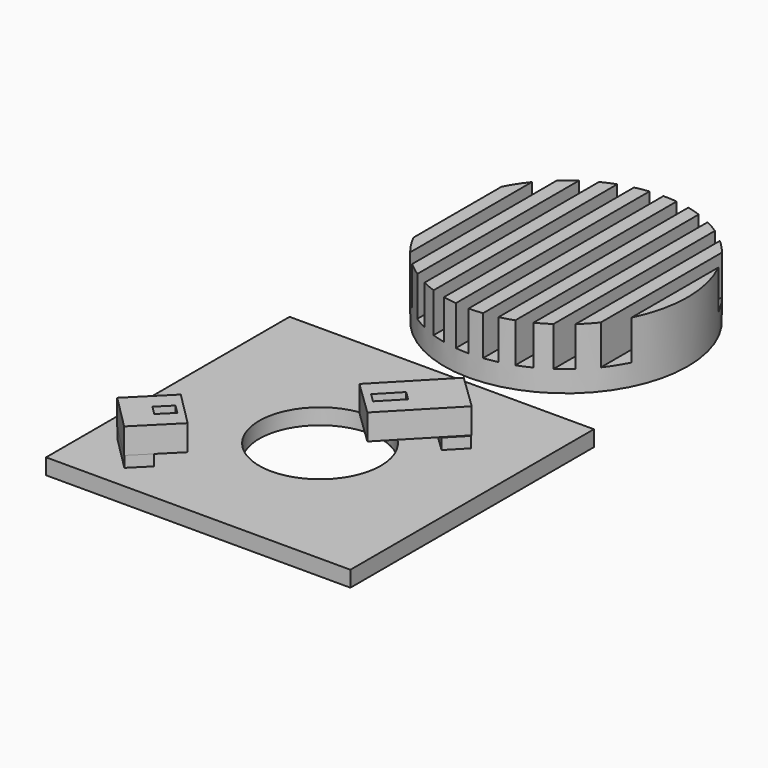
from build123d import *

# Parameters (mm, degrees)
SKETCH005_AS_DRAWN_W                      = 2.018315
SKETCH005_AS_DRAWN_H                      = 4.540272
EXTRUDE002_DEPTH                          = 4.5
EXTRUDE002_ONTO_SKETCH005_PLACEMENT_ANGLE = 136
BOX004_W                                  = 8
BOX004_H                                  = 13.5
BOX004_DEPTH                              = 4.2
BOX004_PLACEMENT_ANGLE                    = 136
BOX002_W                                  = 8
BOX002_H                                  = 3.8
BOX002_DEPTH                              = 1.8
BOX002_PLACEMENT_ANGLE                    = 136
SKETCH006_AS_DRAWN_W                      = 2.0548
SKETCH006_AS_DRAWN_H                      = 2.98173
EXTRUDE003_DEPTH                          = 4.5
EXTRUDE003_ONTO_SKETCH006_PLACEMENT_ANGLE = 135
BOX003_W                                  = 8
BOX003_H                                  = 8.2
BOX003_DEPTH                              = 4.2
BOX003_PLACEMENT_ANGLE                    = 135
BOX001_W                                  = 8
BOX001_H                                  = 3.8
BOX001_DEPTH                              = 1.8
BOX001_PLACEMENT_ANGLE                    = 135
CYLINDER_R                                = 10
CYLINDER_DEPTH                            = 2.6
BOX_W                                     = 50
BOX_H                                     = 50
BOX_DEPTH                                 = 2.6
SKETCH001_W                               = 2.23349
SKETCH001_H                               = 39.923653
SKETCH001_W_2                             = 2.233494
SKETCH001_H_2                             = 40.016715
SKETCH001_W_3                             = 2.204327
SKETCH001_H_3                             = 40.844541
SKETCH001_W_4                             = 2.233492
SKETCH001_H_4                             = 40.109777
SKETCH001_W_5                             = 2.233491
EXTRUDE_DEPTH                             = 6.5
CYLINDER001_R                             = 20
CYLINDER001_DEPTH                         = 10
CUT001_PLACEMENT_ANGLE                    = 180
SKETCH002_R                               = 3
SKETCH002_R_2                             = 2.35
EXTRUDE001_DEPTH                          = 3


with BuildPart() as extrude002:
    # Sketch005 as drawn → Extrude002 (new)
    with BuildSketch(Plane.XY):
        with Locations((3.98714, 10.110961)):
            Rectangle(SKETCH005_AS_DRAWN_W, SKETCH005_AS_DRAWN_H)
    extrude(amount=EXTRUDE002_DEPTH)


with BuildPart() as extrude002_1:
    # Extrude002 onto Sketch005 placement: moved
    add(extrude002.part.moved(Location((47.02, 42.01, 12.52))).rotate(Axis((47.02, 42.01, 12.52), (0, 0, 1)), EXTRUDE002_ONTO_SKETCH005_PLACEMENT_ANGLE))


with BuildPart() as extrude002_2:
    # Extrude002 placement: moved
    add(extrude002_1.part.moved(Location((0, 0, -4.5))))


with BuildPart() as cut003:
    # Box004 → Box004 (new body)
    with BuildSketch(Plane.XY):
        with Locations((4, 6.75)):
            Rectangle(BOX004_W, BOX004_H)
    extrude(amount=BOX004_DEPTH)


with BuildPart() as cut003_1:
    # Box004 placement: moved
    add(cut003.part.moved(Location((47.02, 42.01, 8.32))).rotate(Axis((47.02, 42.01, 8.32), (0, 0, 1)), BOX004_PLACEMENT_ANGLE))

    # Cut003: cut Extrude002
    add(extrude002_2.part, mode=Mode.SUBTRACT)


with BuildPart() as cut003_2:
    # Cut003 placement: moved
    add(cut003_1.part.moved(Location((-5.975619, -5.901068, -3.867182))))


with BuildPart() as fusion:
    # Box002 → Box002 (new body)
    with BuildSketch(Plane.XY):
        with Locations((4, 1.9)):
            Rectangle(BOX002_W, BOX002_H)
    extrude(amount=BOX002_DEPTH)


with BuildPart() as fusion_1:
    # Box002 placement: moved
    add(fusion.part.moved(Location((41, 36, 2.6))).rotate(Axis((41, 36, 2.6), (0, 0, 1)), BOX002_PLACEMENT_ANGLE))

    # Fusion: union Cut003
    add(cut003_2.part)


with BuildPart() as extrude003:
    # Sketch006 as drawn → Extrude003 (new)
    with BuildSketch(Plane.XY):
        with Locations((4.015499, 2.494238)):
            Rectangle(SKETCH006_AS_DRAWN_W, SKETCH006_AS_DRAWN_H)
    extrude(amount=EXTRUDE003_DEPTH)


with BuildPart() as extrude003_1:
    # Extrude003 onto Sketch006 placement: moved
    add(extrude003.part.moved(Location((15.55, 9.66, 12.99))).rotate(Axis((15.55, 9.66, 12.99), (0, 0, 1)), EXTRUDE003_ONTO_SKETCH006_PLACEMENT_ANGLE))


with BuildPart() as extrude003_2:
    # Extrude003 placement: moved
    add(extrude003_1.part.moved(Location((0, 0, -4.5))))


with BuildPart() as cut004:
    # Box003 → Box003 (new body)
    with BuildSketch(Plane.XY):
        with Locations((4, 4.1)):
            Rectangle(BOX003_W, BOX003_H)
    extrude(amount=BOX003_DEPTH)


with BuildPart() as cut004_1:
    # Box003 placement: moved
    add(cut004.part.moved(Location((15.55, 9.66, 8.79))).rotate(Axis((15.55, 9.66, 8.79), (0, 0, 1)), BOX003_PLACEMENT_ANGLE))

    # Cut004: cut Extrude003
    add(extrude003_2.part, mode=Mode.SUBTRACT)


with BuildPart() as cut004_2:
    # Cut004 placement: moved
    add(cut004_1.part.moved(Location((-0.080851, 0.078243, -4.376037))))


with BuildPart() as fusion001:
    # Box001 → Box001 (new body)
    with BuildSketch(Plane.XY):
        with Locations((4, 1.9)):
            Rectangle(BOX001_W, BOX001_H)
    extrude(amount=BOX001_DEPTH)


with BuildPart() as fusion001_1:
    # Box001 placement: moved
    add(fusion001.part.moved(Location((12.36, 6.67, 2.6))).rotate(Axis((12.36, 6.67, 2.6), (0, 0, 1)), BOX001_PLACEMENT_ANGLE))

    # Fusion001: union Cut004
    add(cut004_2.part)


with BuildPart() as cylinder:
    # Cylinder → Cylinder (new body)
    with BuildSketch(Plane(origin=(25, 25, 0), x_dir=(1, 0, 0), z_dir=(0, 0, 1))):
        Circle(CYLINDER_R)
    extrude(amount=CYLINDER_DEPTH)


with BuildPart() as fusion002:
    # Box → Box (new body)
    with BuildSketch(Plane.XY):
        with Locations((25, 25)):
            Rectangle(BOX_W, BOX_H)
    extrude(amount=BOX_DEPTH)

    # Cut: cut Cylinder
    add(cylinder.part, mode=Mode.SUBTRACT)

    # Fusion002: union Fusion, Fusion001
    add(fusion_1.part)
    add(fusion001_1.part)


with BuildPart() as extrude_body:
    # Sketch001 (on Cylinder) → Extrude (new body)
    with BuildSketch(Plane(origin=(25.88, -24.43, 1.58), x_dir=(1, 0, 0), z_dir=(0, 0, 1))):
        with Locations((3.379402, 0.007826)):
            Rectangle(SKETCH001_W, SKETCH001_H)
        with Locations((7.846387, 0.007826)):
            Rectangle(SKETCH001_W_2, SKETCH001_H)
        with Locations((12.313369, 0.054358)):
            Rectangle(SKETCH001_W, SKETCH001_H_2)
        with Locations((16.780351, 0.054358)):
            Rectangle(SKETCH001_W_2, SKETCH001_H_2)
        with Locations((-1.102163, -0.266493)):
            Rectangle(SKETCH001_W_3, SKETCH001_H_3)
        with Locations((-5.554563, 0.100888)):
            Rectangle(SKETCH001_W_4, SKETCH001_H_4)
        with Locations((-10.021547, 0.054358)):
            Rectangle(SKETCH001_W_4, SKETCH001_H_2)
        with Locations((-14.48853, 0.054358)):
            Rectangle(SKETCH001_W_4, SKETCH001_H_2)
        with Locations((-18.955512, 0.100888)):
            Rectangle(SKETCH001_W_5, SKETCH001_H_4)
    extrude(amount=EXTRUDE_DEPTH)


with BuildPart() as cut001:
    # Cylinder001 → Cylinder001 (new body)
    with BuildSketch(Plane(origin=(25.88, -24.43, 1.58), x_dir=(1, 0, 0), z_dir=(0, 0, 1))):
        Circle(CYLINDER001_R)
    extrude(amount=CYLINDER001_DEPTH)

    # Cut001: cut Extrude body
    add(extrude_body.part, mode=Mode.SUBTRACT)


with BuildPart() as cut001_1:
    # Cut001 placement: moved
    add(cut001.part.moved(Location((0, 50, 12))).rotate(Axis((0, 50, 12), (1, 0, 0)), CUT001_PLACEMENT_ANGLE))


with BuildPart() as fusion003:
    # Sketch002 → Extrude001 (new body)
    with BuildSketch(Plane.XY):
        with Locations((25.84182, 74.524612)):
            Circle(SKETCH002_R)
        with Locations((25.84182, 74.524612)):
            Circle(SKETCH002_R_2, mode=Mode.SUBTRACT)
    extrude(amount=EXTRUDE001_DEPTH)


with BuildPart() as fusion003_1:
    # Extrude001 placement: moved
    add(fusion003.part.moved(Location((0, 0, -2.75))))

    # Fusion003: union Cut001
    add(cut001_1.part)


solid = Compound([fusion002.part, fusion003_1.part])
